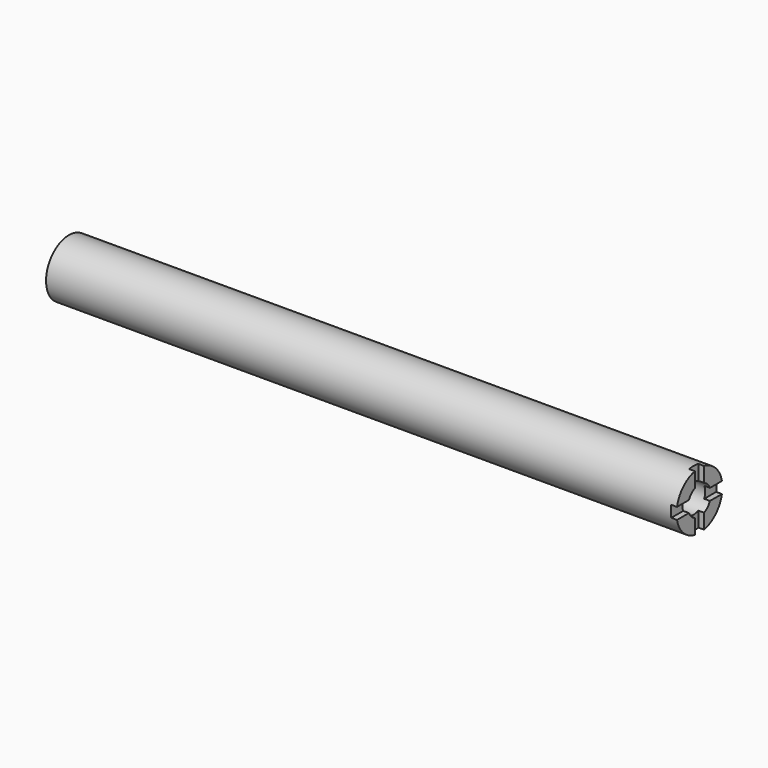
from build123d import *

# Parameters (mm, degrees)
F0_R     = 12.7
F1_DEPTH = 279.4
F2_R     = 6.35
F3_DEPTH = 25.4
F5_DEPTH = 2.54


with BuildPart() as f1:
    # F0 (on Right) → F1 (new body)
    with BuildSketch(Plane.YZ):
        Circle(F0_R)
    extrude(amount=F1_DEPTH)

    # F2 (on face) → F3 (cut)
    with BuildSketch(Plane.YZ.offset(279.4)):
        Circle(F2_R)
    extrude(amount=-F3_DEPTH, mode=Mode.SUBTRACT)

    # F4 (on face) → F5 (cut)
    with BuildSketch(Plane.YZ.offset(279.4)):
        Polygon((2.54, 14.937937), (-2.54, 14.937937), (-2.54, 2.54), (-16.361298, 2.54), (-16.361298, -2.54), (-2.54, -2.54), (-2.54, -16.465891), (2.54, -16.465891), (2.54, -2.54), (18.680093, -2.54), (18.680093, 2.54), (2.54, 2.54), align=None)
    extrude(amount=-F5_DEPTH, mode=Mode.SUBTRACT)


solid = f1.part
